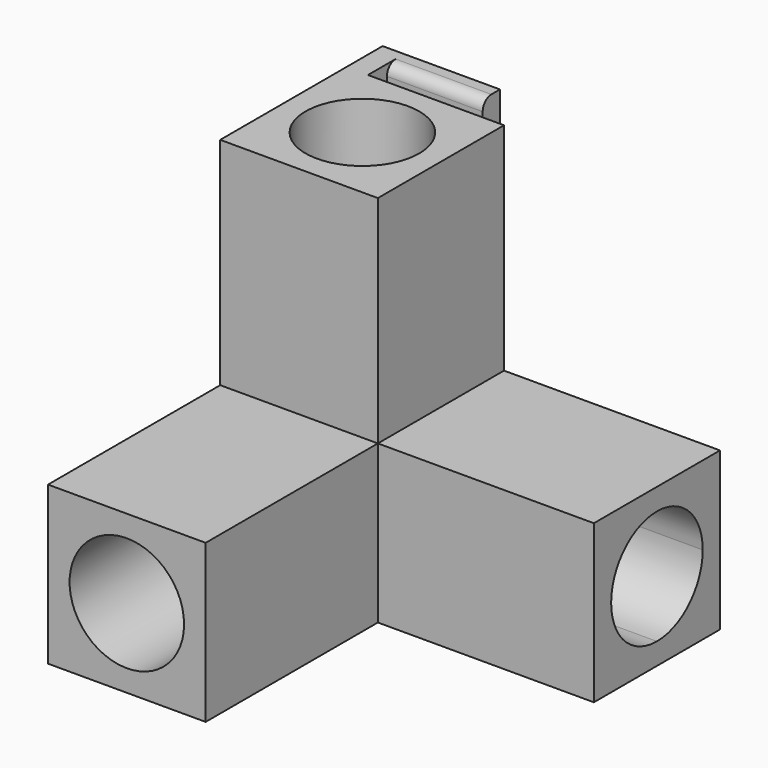
from build123d import *

# Parameters (mm, degrees)
F0_W      = 27
F0_H      = 15.9
F0_W_2    = 15.9
F0_H_2    = 27
F0_W_3    = 3
F0_H_3    = 3
F1_DEPTH  = 21.9
F2_DEPTH  = 51.8
F3_R      = 7.95
F6_DEPTH  = 30
F7_DEPTH  = 30
F4_R      = 7.9
F8_DEPTH  = 30
F10_DEPTH = 51.9
F11_R     = 1.5


with BuildPart() as f1:
    # F0 (on Front) → F1 (new body)
    with BuildSketch(Plane.XZ):
        with BuildLine():
            Line((-34.3576915575, 15.9), (-42.3076915575, 15.9))
            Line((-42.3076915575, 15.9), (-42.3076915575, 7.9499999931))
            ThreePointArc((-42.3076915575, 7.9499999931), (-39.9791904704, 13.571498908), (-34.3576915575, 15.9))
        make_face()
        with BuildLine():
            ThreePointArc((-34.3576915575, 15.9), (-39.9791904704, 13.571498908), (-42.3076915575, 7.9499999931))
            ThreePointArc((-42.3076915575, 7.9499999931), (-39.9791904655, 2.3285010871), (-34.3576915575, 0))
            ThreePointArc((-34.3576915575, 0), (-28.7361926471, 2.3285010896), (-26.4076915575, 7.95))
            ThreePointArc((-26.4076915575, 7.95), (-28.7361926471, 13.5714989104), (-34.3576915575, 15.9))
        make_face()
        Polygon((-42.3076915575, 18.9), (-42.3076915575, 45.9), (-26.4076915575, 45.9), (-26.4076915575, 18.9), (-23.4076915575, 18.9), (-23.4076915575, 48.9), (-45.3076915575, 48.9), (-45.3076915575, 18.9), align=None)
        with Locations((-9.9076915575, 7.95)):
            Rectangle(F0_W, F0_H)
        with Locations((-34.3576915575, 32.4)):
            Rectangle(F0_W_2, F0_H_2)
        with BuildLine():
            ThreePointArc((-34.3576915575, 0), (-39.9791904655, 2.3285010871), (-42.3076915575, 7.9499999931))
            Line((-42.3076915575, 7.9499999931), (-42.3076915575, 0))
            Line((-42.3076915575, 0), (-34.3576915575, 0))
        make_face()
        with BuildLine():
            Line((-26.4076915575, 0), (-26.4076915575, 7.95))
            ThreePointArc((-26.4076915575, 7.95), (-28.7361926471, 2.3285010896), (-34.3576915575, 0))
            Line((-34.3576915575, 0), (-26.4076915575, 0))
        make_face()
        with BuildLine():
            Line((-26.4076915575, 7.95), (-26.4076915575, 15.9))
            Line((-26.4076915575, 15.9), (-34.3576915575, 15.9))
            ThreePointArc((-34.3576915575, 15.9), (-28.7361926471, 13.5714989104), (-26.4076915575, 7.95))
        make_face()
        Polygon((6.5923084425, 18.9), (-23.4076915575, 18.9), (-23.4076915575, 15.9), (3.5923084425, 15.9), (3.5923084425, 0), (-23.4076915575, 0), (-23.4076915575, -3), (6.5923084425, -3), align=None)
        Polygon((-26.4076915575, 18.9), (-42.3076915575, 18.9), (-42.3076915575, 15.9), (-34.3576915575, 15.9), (-26.4076915575, 15.9), align=None)
        Polygon((-23.4076915575, 15.9), (-26.4076915575, 15.9), (-26.4076915575, 7.95), (-26.4076915575, 0), (-23.4076915575, 0), align=None)
        Polygon((-42.3076915575, 15.9), (-42.3076915575, 18.9), (-45.3076915575, 18.9), (-45.3076915575, -3), (-23.4076915575, -3), (-23.4076915575, 0), (-26.4076915575, 0), (-34.3576915575, 0), (-42.3076915575, 0), (-42.3076915575, 7.9499999931), align=None)
        with Locations((-24.9076915575, 17.4)):
            Rectangle(F0_W_3, F0_H_3)
    extrude(amount=F1_DEPTH)

    # F0 (on Front) → F2 (join)
    with BuildSketch(Plane.XZ):
        Polygon((-42.3076915575, 15.9), (-42.3076915575, 18.9), (-45.3076915575, 18.9), (-45.3076915575, -3), (-23.4076915575, -3), (-23.4076915575, 0), (-26.4076915575, 0), (-34.3576915575, 0), (-42.3076915575, 0), (-42.3076915575, 7.9499999931), align=None)
        with BuildLine():
            ThreePointArc((-34.3576915575, 15.9), (-39.9791904704, 13.571498908), (-42.3076915575, 7.9499999931))
            ThreePointArc((-42.3076915575, 7.9499999931), (-39.9791904655, 2.3285010871), (-34.3576915575, 0))
            ThreePointArc((-34.3576915575, 0), (-28.7361926471, 2.3285010896), (-26.4076915575, 7.95))
            ThreePointArc((-26.4076915575, 7.95), (-28.7361926471, 13.5714989104), (-34.3576915575, 15.9))
        make_face()
        Polygon((-26.4076915575, 18.9), (-42.3076915575, 18.9), (-42.3076915575, 15.9), (-34.3576915575, 15.9), (-26.4076915575, 15.9), align=None)
        Polygon((-23.4076915575, 15.9), (-26.4076915575, 15.9), (-26.4076915575, 7.95), (-26.4076915575, 0), (-23.4076915575, 0), align=None)
        with Locations((-24.9076915575, 17.4)):
            Rectangle(F0_W_3, F0_H_3)
        with BuildLine():
            Line((-26.4076915575, 7.95), (-26.4076915575, 15.9))
            Line((-26.4076915575, 15.9), (-34.3576915575, 15.9))
            ThreePointArc((-34.3576915575, 15.9), (-28.7361926471, 13.5714989104), (-26.4076915575, 7.95))
        make_face()
        with BuildLine():
            Line((-34.3576915575, 15.9), (-42.3076915575, 15.9))
            Line((-42.3076915575, 15.9), (-42.3076915575, 7.9499999931))
            ThreePointArc((-42.3076915575, 7.9499999931), (-39.9791904704, 13.571498908), (-34.3576915575, 15.9))
        make_face()
        with BuildLine():
            ThreePointArc((-34.3576915575, 0), (-39.9791904655, 2.3285010871), (-42.3076915575, 7.9499999931))
            Line((-42.3076915575, 7.9499999931), (-42.3076915575, 0))
            Line((-42.3076915575, 0), (-34.3576915575, 0))
        make_face()
        with BuildLine():
            Line((-26.4076915575, 0), (-26.4076915575, 7.95))
            ThreePointArc((-26.4076915575, 7.95), (-28.7361926471, 2.3285010896), (-34.3576915575, 0))
            Line((-34.3576915575, 0), (-26.4076915575, 0))
        make_face()
    extrude(amount=F2_DEPTH)

    # F3 (on face) → F6 (cut)
    with BuildSketch(Plane.XZ.offset(51.8)):
        with Locations((-34.3576915575, 7.95)):
            Circle(F3_R)
    extrude(amount=-F6_DEPTH, mode=Mode.SUBTRACT)

    # F5 (on face) → F7 (cut)
    with BuildSketch(Plane.YZ.offset(6.5923084425)):
        with BuildLine():
            ThreePointArc((-3, 7.95), (-5.3285010896, 13.5714989104), (-10.95, 15.9))
            ThreePointArc((-10.95, 15.9), (-16.5714989104, 13.5714989104), (-18.9, 7.95))
            ThreePointArc((-18.9, 7.95), (-16.5714989104, 2.3285010896), (-10.95, 0))
            ThreePointArc((-10.95, 0), (-5.3285010896, 2.3285010896), (-3, 7.95))
        make_face()
    extrude(amount=-F7_DEPTH, mode=Mode.SUBTRACT)

    # F4 (on face) → F8 (cut)
    with BuildSketch(Plane.XY.offset(48.9)):
        with Locations((-34.3576915575, -10.9)):
            Circle(F4_R)
    extrude(amount=-F8_DEPTH, mode=Mode.SUBTRACT)

    # F9 (on face) → F10 (join)
    with BuildSketch(Plane(origin=(0, 0, -3), x_dir=(1, 0, 0), z_dir=(0, 0, -1))):
        Polygon((-42.3076915575, 0), (-45.3076915575, 0), (-45.3076915575, -6.3), (-29.0076915575, -6.3), (-29.0076915575, -3.3), (-42.3076915575, -3.3), align=None)
    extrude(amount=-F10_DEPTH)

    # F11
    f11_edges = [f1.edges().sort_by_distance(p)[0] for p in [
        (-35.657692, 3.3, -3),
        (-35.657692, 3.3, 48.9),
    ]]
    fillet(f11_edges, radius=F11_R)


solid = f1.part
